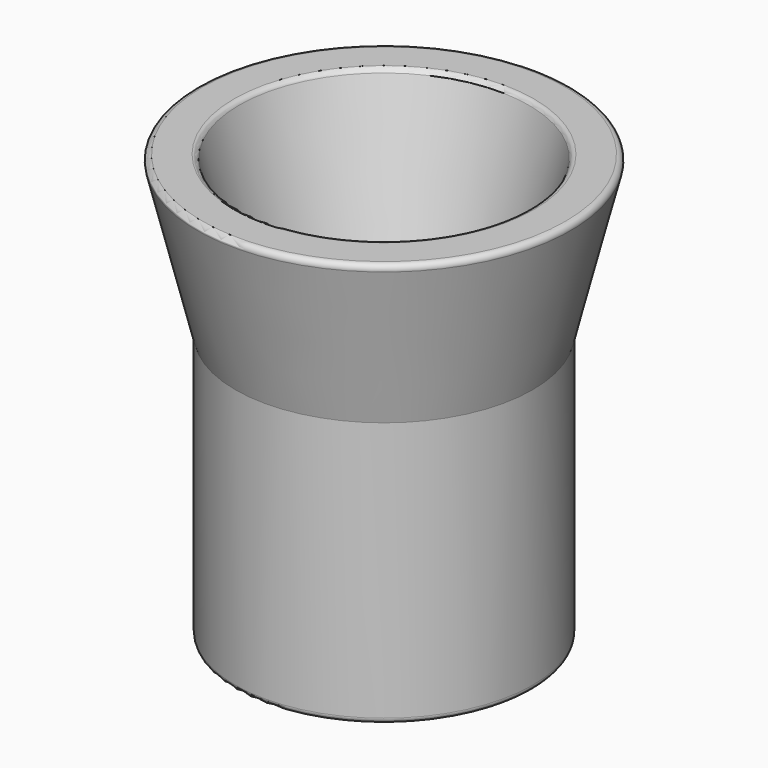
from build123d import *

# Parameters (mm, degrees)
F2_R = 1
F3_R = 1


with BuildPart() as f1:
    # F0 (on Front) → F1 (revolve)
    with BuildSketch(Plane.XZ):
        Polygon((-28, 50), (-28, 0), (-19, 0), (-19, 50), (-27.5, 80), (-35.5, 80), align=None)
    revolve(axis=Axis((0, 0, 61.423291), (0, 0, 1)))

    # F2
    f2_edges = [f1.edges().sort_by_distance(p)[0] for p in [
        (27.5, 0, 80),
    ]]
    fillet(f2_edges, radius=F2_R)

    # F3
    f3_edges = [f1.edges().sort_by_distance(p)[0] for p in [
        (35.5, 0, 80),
        (28, 0, 0),
        (19, 0, 0),
    ]]
    fillet(f3_edges, radius=F3_R)


solid = f1.part
